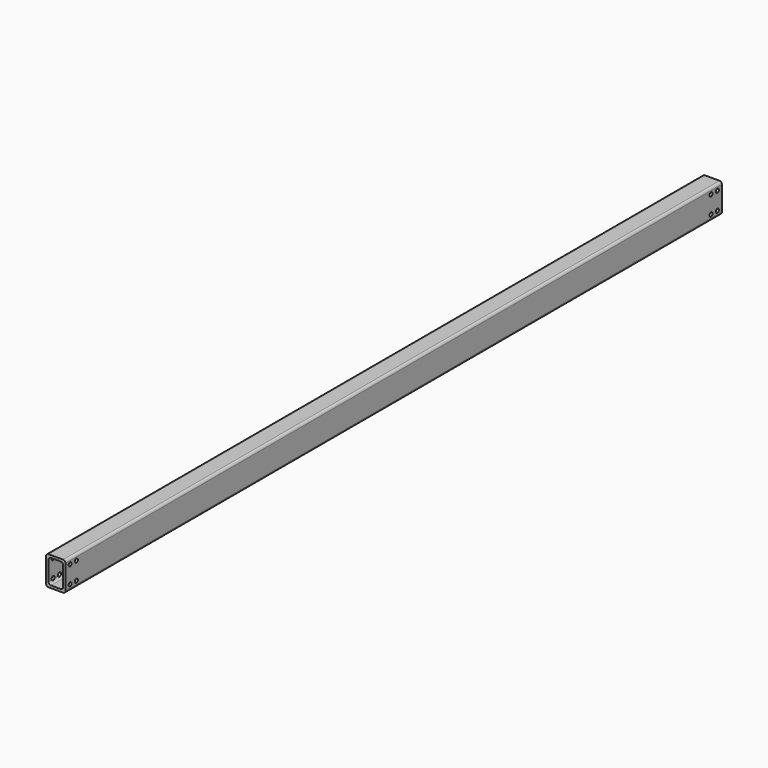
from build123d import *

# Parameters (mm, degrees)
F1_DEPTH = 2146.4397
F2_R     = 5
F3_DEPTH = 50.801


with BuildPart() as f1:
    # F0 (on Front) → F1 (new body)
    with BuildSketch(Plane.XZ):
        with BuildLine():
            Line((25.400001, 36.691132), (-12.699999, 36.691132))
            ThreePointArc((-12.699999, 36.691132), (-17.190127, 34.83126), (-19.049999, 30.341132))
            Line((-19.049999, 30.341132), (-19.049999, -33.158868))
            ThreePointArc((-19.049999, -33.158868), (-17.190127, -37.648996), (-12.699999, -39.508868))
            Line((-12.699999, -39.508868), (25.400001, -39.508868))
            ThreePointArc((25.400001, -39.508868), (29.890129, -37.648996), (31.750001, -33.158868))
            Line((31.750001, -33.158868), (31.750001, 30.341132))
            ThreePointArc((31.750001, 30.341132), (29.890129, 34.83126), (25.400001, 36.691132))
        make_face()
        with BuildLine():
            ThreePointArc((-12.699999, 23.991132), (-10.840127, 28.48126), (-6.349999, 30.341132))
            Line((-6.349999, 30.341132), (19.050001, 30.341132))
            ThreePointArc((19.050001, 30.341132), (23.540129, 28.48126), (25.400001, 23.991132))
            Line((25.400001, 23.991132), (25.400001, -26.808868))
            ThreePointArc((25.400001, -26.808868), (23.540129, -31.298996), (19.050001, -33.158868))
            Line((19.050001, -33.158868), (-6.349999, -33.158868))
            ThreePointArc((-6.349999, -33.158868), (-10.840127, -31.298996), (-12.699999, -26.808868))
            Line((-12.699999, -26.808868), (-12.699999, 23.991132))
        make_face(mode=Mode.SUBTRACT)
    extrude(amount=F1_DEPTH)

    # F2 (on face) → F3 (cut, through all)
    with BuildSketch(Plane.YZ.offset(31.750001)):
        with Locations((-2131.4397, 21.691132)):
            Circle(F2_R)
        with Locations((-2110.6397, 21.691132)):
            Circle(F2_R)
        with Locations((-2131.4397, -24.508868)):
            Circle(F2_R)
        with Locations((-2110.6397, -24.508868)):
            Circle(F2_R)
        with Locations((-35.8, 21.691132)):
            Circle(F2_R)
        with Locations((-35.8, -24.508868)):
            Circle(F2_R)
        with Locations((-15, 21.691132)):
            Circle(F2_R)
        with Locations((-15, -24.508868)):
            Circle(F2_R)
    extrude(amount=-F3_DEPTH, mode=Mode.SUBTRACT)


solid = f1.part
